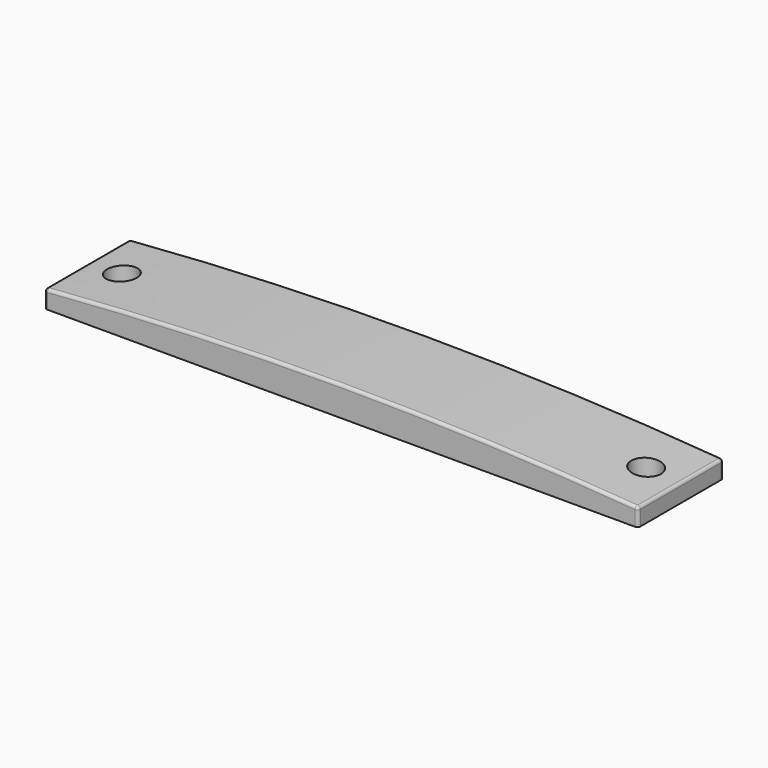
from build123d import *

# Parameters (mm, degrees)
F1_DEPTH      = 18
F1_DEPTH_BACK = 18
F2_R          = 5
F3_DEPTH      = 25
F4_R          = 1


with BuildPart() as f1:
    # F0 (on Front) → F1 (new body, two sides)
    with BuildSketch(Plane.XZ) as f1_sk:
        with BuildLine():
            Line((-100, 6), (-100, 0))
            Line((-100, 0), (100, 0))
            Line((100, 0), (100, 6))
            ThreePointArc((100, 6), (0, 10), (-100, 6))
        make_face()
    extrude(amount=F1_DEPTH)
    extrude(f1_sk.sketch, amount=-F1_DEPTH_BACK)

    # F2 (on Top) → F3 (cut)
    with BuildSketch(Plane.XY):
        with Locations((-88.35, 0)):
            Circle(F2_R)
        with Locations((88.35, 0)):
            Circle(F2_R)
    extrude(amount=F3_DEPTH, mode=Mode.SUBTRACT)

    # F4
    f4_edges = [f1.edges().sort_by_distance(p)[0] for p in [
        (-100, 0, 6),
        (0, -18, 10),
        (100, 0, 6),
        (0, 18, 10),
        (100, -18, 3),
        (100, 18, 3),
        (-100, 18, 3),
        (-100, -18, 3),
    ]]
    fillet(f4_edges, radius=F4_R)


solid = f1.part
